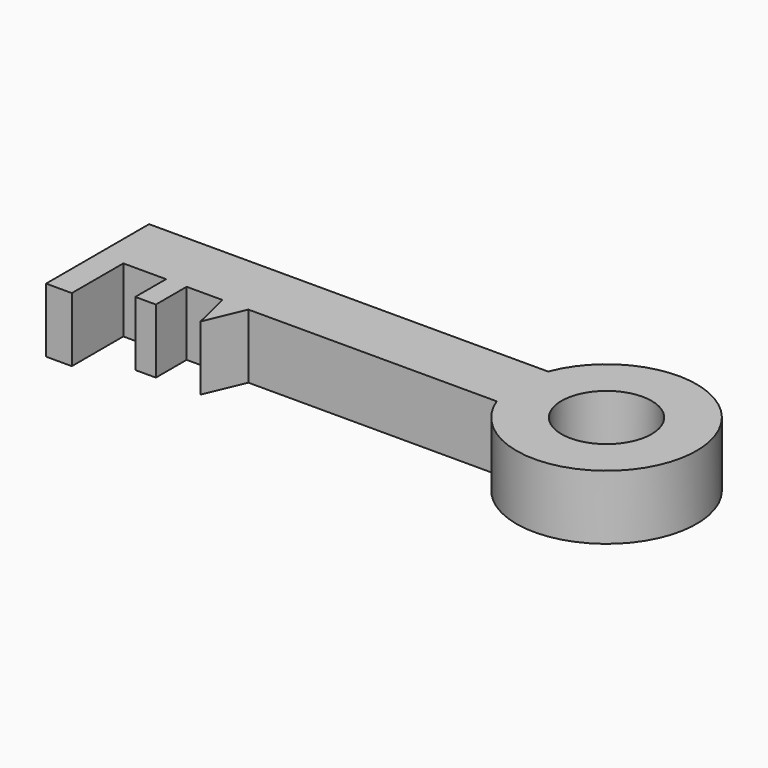
from build123d import *

# Parameters (mm, degrees)
F0_R     = 17.5
F0_W     = 8
F0_H     = 14.940828
F0_W_2   = 10
F0_H_2   = 25
F1_DEPTH = 25


with BuildPart() as f1:
    # F0 (on Top) → F1 (new body)
    with BuildSketch(Plane.XY):
        Polygon((-96.449703, 0), (0, 0), (0, 25), (-155, 25), (-155, 0), (-145, 0), (-128.402377, 0), (-120.402377, 0), (-106.508876, 0), align=None)
        with BuildLine():
            Line((0, 25), (0, 0))
            ThreePointArc((0, 0), (67.691742, 12.5), (0, 25))
        make_face()
        with Locations((32.691742, 12.5)):
            Circle(F0_R, mode=Mode.SUBTRACT)
        Polygon((-102.865453, -15.237396), (-96.449703, 0), (-106.508876, 0), align=None)
        with Locations((-124.402377, -7.470414)):
            Rectangle(F0_W, F0_H)
        with Locations((-150, -12.5)):
            Rectangle(F0_W_2, F0_H_2)
    extrude(amount=F1_DEPTH)


solid = f1.part
